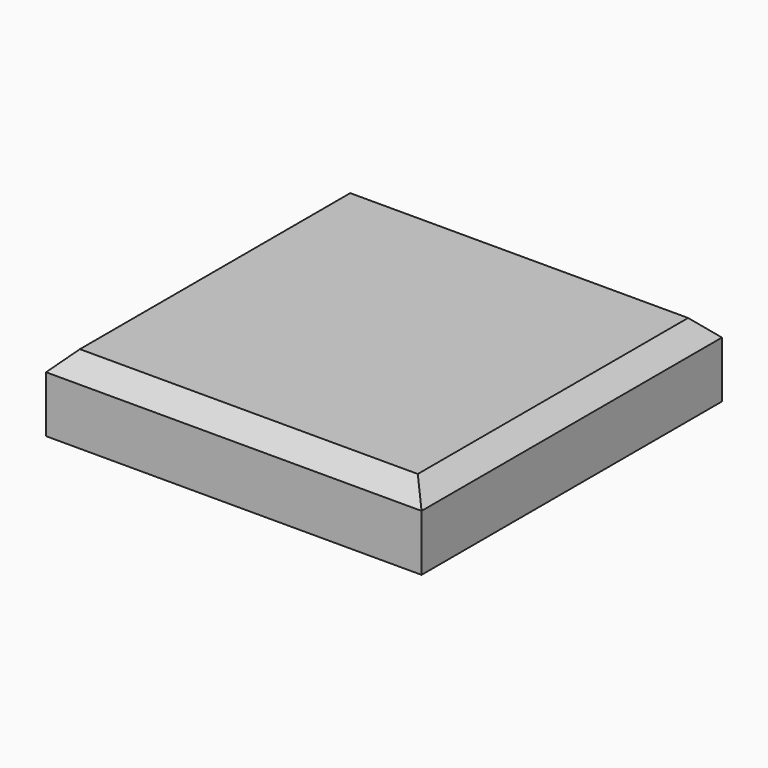
from build123d import *

# Parameters (mm, degrees)
F0_W     = 127
F0_H     = 127
F1_DEPTH = 25.4
F2_SIZE  = 6.35


with BuildPart() as f1:
    # F0 (on Top) → F1 (new body)
    with BuildSketch(Plane.XY):
        Rectangle(F0_W, F0_H)
    extrude(amount=F1_DEPTH)

    # F2
    f2_edges = [f1.edges().sort_by_distance(p)[0] for p in [
        (0, -63.5, 25.4),
        (63.5, 0, 25.4),
        (0, 63.5, 25.4),
        (-63.5, 0, 25.4),
    ]]
    chamfer(f2_edges, length=F2_SIZE)


solid = f1.part
